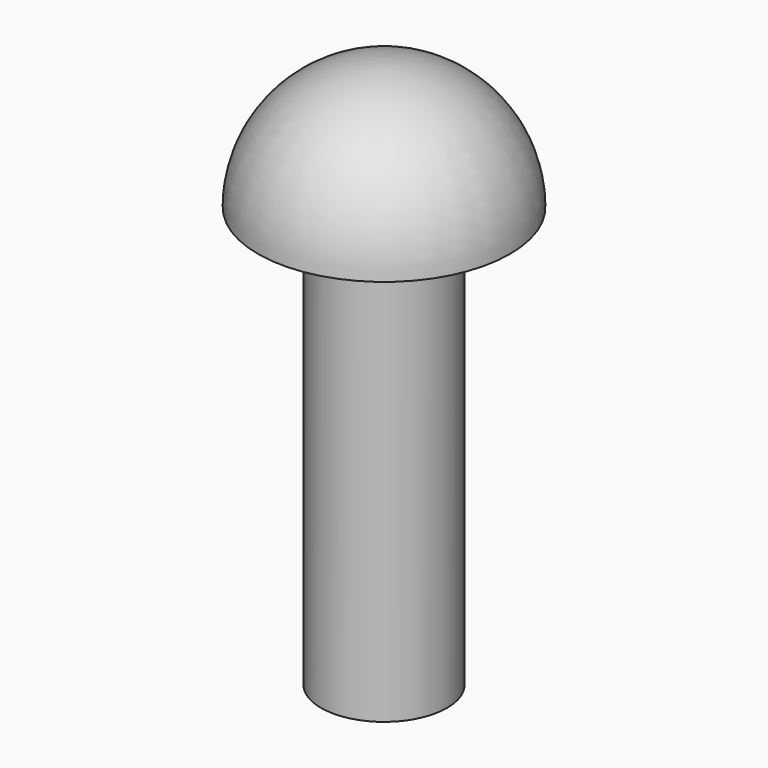
from build123d import *

# Parameters (mm, degrees)
F0_R     = 1.5
F1_DEPTH = 10


with BuildPart() as f1:
    # F0 (on Top) → F1 (new body)
    with BuildSketch(Plane.XY):
        Circle(F0_R)
    extrude(amount=-F1_DEPTH)

    # F2 (on Front) → F3 (revolve)
    with BuildSketch(Plane.XZ):
        with BuildLine():
            Line((0, 0), (3, 0))
            ThreePointArc((3, 0), (2.12132, 2.12132), (0, 3))
            Line((0, 3), (0, 0))
        make_face()
    revolve(axis=Axis((0, 0, 1.5), (0, 0, -1)))


solid = f1.part
